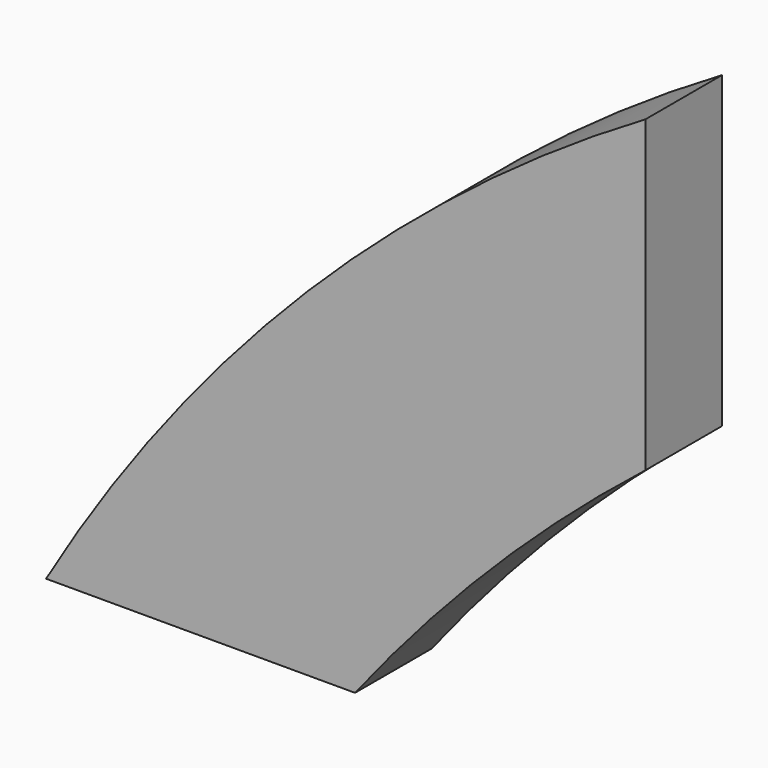
from build123d import *

# Parameters (mm, degrees)
F1_DEPTH = 50


with BuildPart() as f1:
    # F0 (on Front) → F1 (new body)
    with BuildSketch(Plane.XZ):
        with BuildLine():
            ThreePointArc((323.4450933082, 176.5549066918), (249.5638004989, 92.6242108607), (186.9254520827, 0))
            Line((186.9254520827, 0), (348.3273520735, 0))
            ThreePointArc((348.3273520735, 0), (382.7826177514, 41.2459720304), (419.6351952441, 80.3648047559))
            Line((419.6351952441, 80.3648047559), (323.4450933082, 176.5549066918))
        make_face()
        with BuildLine():
            ThreePointArc((500, 313.0745479174), (407.3757891394, 250.4361995011), (323.4450933082, 176.5549066918))
            Line((323.4450933082, 176.5549066918), (419.6351952441, 80.3648047559))
            ThreePointArc((419.6351952441, 80.3648047559), (458.7540279696, 117.2173822487), (500, 151.6726479266))
            Line((500, 151.6726479266), (500, 313.0745479174))
        make_face()
    extrude(amount=-F1_DEPTH)


solid = f1.part
